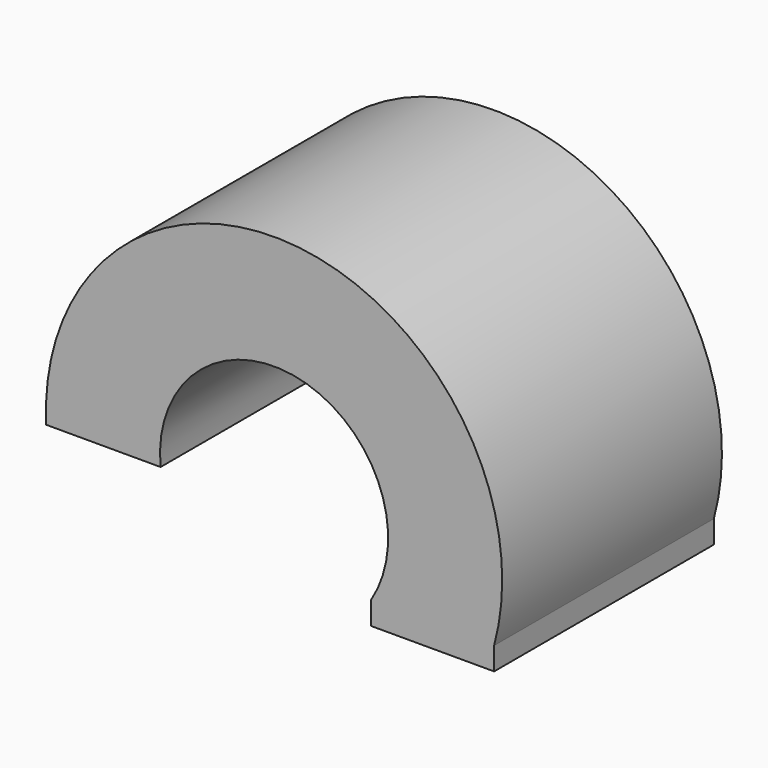
from build123d import *

# Parameters (mm, degrees)
F1_DEPTH  = 6.02
F1_FACE_W = 2.699048
F1_FACE_H = 6.02
F2_DEPTH  = 0.5


with BuildPart() as f1:
    # F0 (on Front) → F1 (new body)
    with BuildSketch(Plane.XZ):
        with BuildLine():
            Line((-18.861822, 1.211973), (-16.162774, 1.211973))
            ThreePointArc((-16.162774, 1.211973), (-20.445808, 7.501427), (-25.979371, 2.278277))
            Line((-25.979371, 2.278277), (-23.472972, 2.278277))
            ThreePointArc((-23.472972, 2.278277), (-20.422497, 4.96639), (-18.861822, 1.211973))
        make_face()
    extrude(amount=F1_DEPTH)

    # F1_face (on face) → F2 (join)
    with BuildSketch(Plane(origin=(-17.512298, -3.01, 1.211973), x_dir=(1, 0, 0), z_dir=(0, 0, -1))):
        Rectangle(F1_FACE_W, F1_FACE_H)
    extrude(amount=F2_DEPTH)


solid = f1.part
